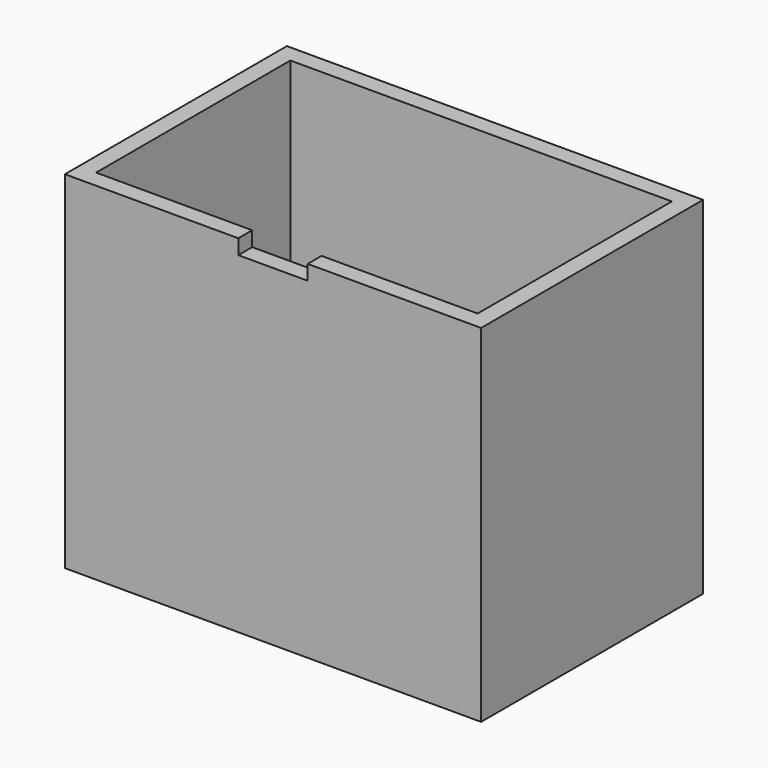
from build123d import *

# Parameters (mm, degrees)
F0_W     = 15.24
F0_H     = 10.16
F1_DEPTH = 12.7
F2_W     = 13.97
F2_H     = 8.89
F3_DEPTH = 11.43
F4_W     = 2.54
F4_H     = 0.5442967311
F5_DEPTH = 2.54


with BuildPart() as f1:
    # F0 (on Top) → F1 (new body)
    with BuildSketch(Plane.XY):
        Rectangle(F0_W, F0_H)
    extrude(amount=F1_DEPTH)

    # F2 (on face) → F3 (cut)
    with BuildSketch(Plane.XY.offset(12.7)):
        Rectangle(F2_W, F2_H)
    extrude(amount=-F3_DEPTH, mode=Mode.SUBTRACT)

    # F4 (on face) → F5 (cut)
    with BuildSketch(Plane.XZ.offset(5.08)):
        with Locations((0, 12.4278516345)):
            Rectangle(F4_W, F4_H)
    extrude(amount=-F5_DEPTH, mode=Mode.SUBTRACT)


solid = f1.part
